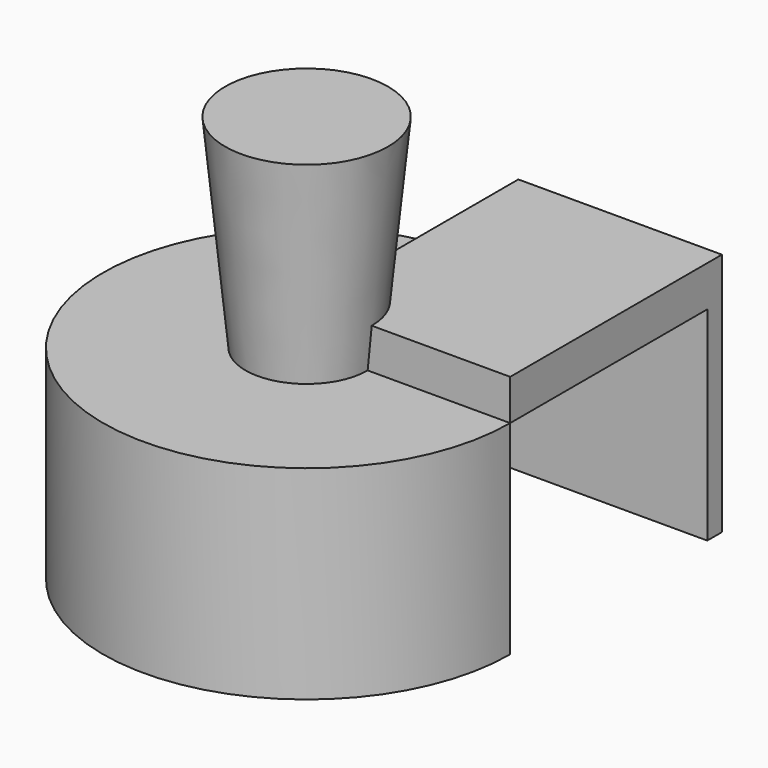
from build123d import *

# Parameters (mm, degrees)
CYLINDER_R     = 10
CYLINDER_DEPTH = 10
BOX_W          = 10
BOX_H          = 13
BOX_DEPTH      = 12
BOX001_W       = 10.1
BOX001_H       = 12.1
BOX001_DEPTH   = 10


with BuildPart() as part:
    # Cone → Cone (revolve)
    with BuildSketch(Plane.XZ):
        Polygon((0, 0), (2, 0), (4, 20), (0, 20), align=None)
    revolve(axis=Axis((0, 0, 0), (0, 0, 1)))

    # Cylinder → Cylinder (join)
    with BuildSketch(Plane.XY):
        Circle(CYLINDER_R)
    extrude(amount=CYLINDER_DEPTH)

    # Box → Box (join)
    with BuildSketch(Plane.XY):
        with Locations((5, 6.5)):
            Rectangle(BOX_W, BOX_H)
    extrude(amount=BOX_DEPTH)

    # Box001 → Box001 (cut)
    with BuildSketch(Plane.XY):
        with Locations((5.05, 6.05)):
            Rectangle(BOX001_W, BOX001_H)
    extrude(amount=BOX001_DEPTH, mode=Mode.SUBTRACT)


solid = part.part
